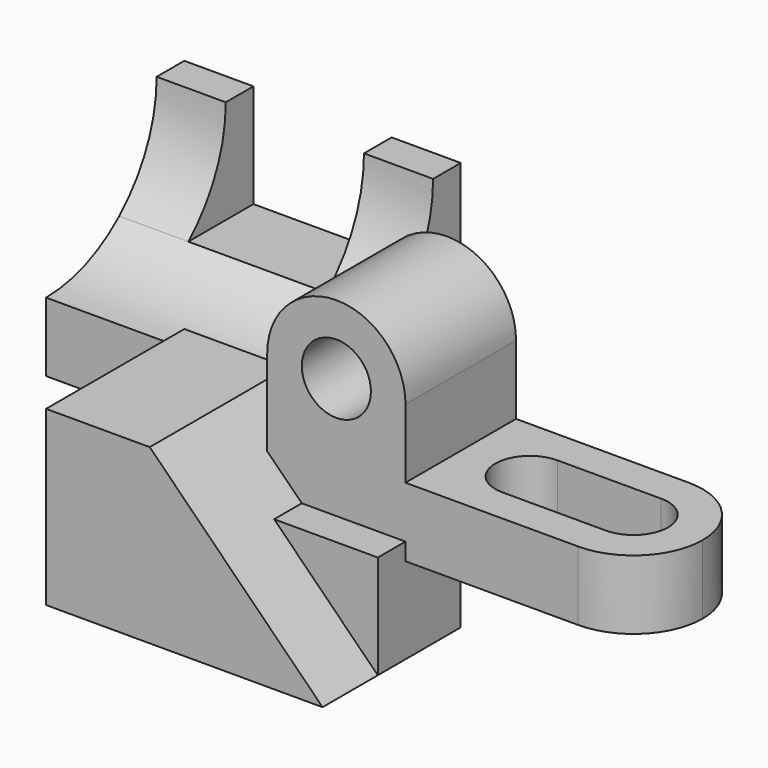
from build123d import *

# Parameters (mm, degrees)
F1_DEPTH  = 127
F2_DEPTH  = 76.2
F4_DEPTH  = 203.2
F5_START  = -50.8
F5_DEPTH  = 101.6
F6_R      = 25.4
F7_DEPTH  = 50.8
F9_DEPTH  = 110.49
F10_R     = 6.35
F10_R_2   = 19.05
F11_DEPTH = 9.525
F12_R     = 6.35
F13_DEPTH = 50.8
F14_START = -9.525
F14_DEPTH = 31.75


with BuildPart() as f1:
    # F0 (on Front) → F1 (new body)
    with BuildSketch(Plane.XZ):
        Polygon((-25.4, 63.5), (-101.6, 63.5), (-101.6, -63.5), (25.4, -63.5), (101.6, -63.5), (25.4, 12.7), align=None)
    extrude(amount=F1_DEPTH)

    # F0 (on Front) → F2 (join)
    with BuildSketch(Plane.XZ):
        Polygon((101.6, 12.7), (25.4, 12.7), (101.6, -63.5), align=None)
    extrude(amount=F2_DEPTH)


with BuildPart() as f4:
    # F3 (on Right) → F4 (new body)
    with BuildSketch(Plane.YZ):
        with BuildLine():
            Line((0, 50.8), (0, 0))
            Line((0, 0), (127, 0))
            Line((127, 0), (127, 76.2))
            Line((127, 76.2), (67.202083301, 76.2))
            ThreePointArc((67.202083301, 76.2), (35.9210244843, 57.3619023759), (0, 50.8))
        make_face()
        with BuildLine():
            Line((67.202083301, 76.2), (127, 76.2))
            Line((127, 76.2), (127, 152.4))
            Line((127, 152.4), (101.6, 152.4))
            ThreePointArc((101.6, 152.4), (92.602083301, 110.597916699), (67.202083301, 76.2))
        make_face()
    extrude(amount=-F4_DEPTH)

    # F3 (on Right) → F5 (cut)
    with BuildSketch(Plane.YZ.offset(F5_START)):
        with BuildLine():
            Line((67.202083301, 76.2), (127, 76.2))
            Line((127, 76.2), (127, 152.4))
            Line((127, 152.4), (101.6, 152.4))
            ThreePointArc((101.6, 152.4), (92.602083301, 110.597916699), (67.202083301, 76.2))
        make_face()
    extrude(amount=-F5_DEPTH, mode=Mode.SUBTRACT)


with BuildPart() as f7:
    # F6 (on Front) → F7 (new body, symmetric)
    with BuildSketch(Plane.XZ):
        with BuildLine():
            Line((0, 101.6), (0, 0))
            Line((0, 0), (279.4, 0))
            Line((279.4, 0), (279.4, 50.8))
            Line((279.4, 50.8), (101.6, 50.8))
            Line((101.6, 50.8), (101.6, 101.6))
            ThreePointArc((101.6, 101.6), (50.8, 152.4), (0, 101.6))
        make_face()
        with Locations((50.8, 101.6)):
            Circle(F6_R, mode=Mode.SUBTRACT)
    extrude(amount=F7_DEPTH, both=True)

    # F8 (on face) → F9 (cut)
    with BuildSketch(Plane.XY.offset(50.8)):
        with BuildLine():
            ThreePointArc((152.4, 25.4), (127, 0), (152.4, -25.4))
            Line((152.4, -25.4), (184.6059094878, -25.4))
            Line((184.6059094878, -25.4), (228.6, -25.4))
            ThreePointArc((228.6, -25.4), (254, 0), (228.6, 25.4))
            Line((228.6, 25.4), (184.6059094878, 25.4))
            Line((184.6059094878, 25.4), (152.4, 25.4))
        make_face()
        with BuildLine():
            Line((279.4, 50.8), (228.600000246, 50.8))
            ThreePointArc((228.600000246, 50.8), (264.5210247595, 35.921024209), (279.4, -5.325e-07))
            Line((279.4, -5.325e-07), (279.4, 50.8))
        make_face()
        with BuildLine():
            ThreePointArc((279.4, -5.325e-07), (264.5210243091, -35.9210246594), (228.6000000372, -50.8))
            Line((228.6000000372, -50.8), (279.4, -50.8))
            Line((279.4, -50.8), (279.4, -5.325e-07))
        make_face()
    extrude(amount=-F9_DEPTH, mode=Mode.SUBTRACT)


with BuildPart() as f11:
    # F10 (on Top) → F11 (new body)
    with BuildSketch(Plane.XY):
        with BuildLine():
            Line((0, 50.8), (0, 0))
            Line((0, 0), (64.929275668, 0))
            ThreePointArc((64.929275668, 0), (123.825, 25.4), (64.929275668, 50.8))
            Line((64.929275668, 50.8), (0, 50.8))
        make_face()
        with Locations((19.05, 25.4)):
            Circle(F10_R, mode=Mode.SUBTRACT)
        with Locations((88.9, 25.4)):
            Circle(F10_R_2, mode=Mode.SUBTRACT)
    extrude(amount=F11_DEPTH)

    # F12 (on Front) → F13 (join)
    with BuildSketch(Plane.XZ):
        with BuildLine():
            Line((0, 44.45), (0, 9.525))
            Line((0, 9.525), (47.625, 9.525))
            ThreePointArc((47.625, 9.525), (40.8898079092, 12.3148079092), (38.1, 19.05))
            Line((38.1, 19.05), (38.1, 44.45))
            ThreePointArc((38.1, 44.45), (19.05, 63.5), (0, 44.45))
        make_face()
        with Locations((19.05, 44.45)):
            Circle(F12_R, mode=Mode.SUBTRACT)
    extrude(amount=-F13_DEPTH)

    # F12 (on Front) → F14 (cut)
    with BuildSketch(Plane.XZ.offset(F14_START)):
        with BuildLine():
            Line((0, 44.45), (0, 9.525))
            Line((0, 9.525), (47.625, 9.525))
            ThreePointArc((47.625, 9.525), (40.8898079092, 12.3148079092), (38.1, 19.05))
            Line((38.1, 19.05), (38.1, 44.45))
            ThreePointArc((38.1, 44.45), (19.05, 63.5), (0, 44.45))
        make_face()
        with Locations((19.05, 44.45)):
            Circle(F12_R, mode=Mode.SUBTRACT)
    extrude(amount=-F14_DEPTH, mode=Mode.SUBTRACT)


solid = Compound([f1.part, f4.part, f7.part, f11.part])
